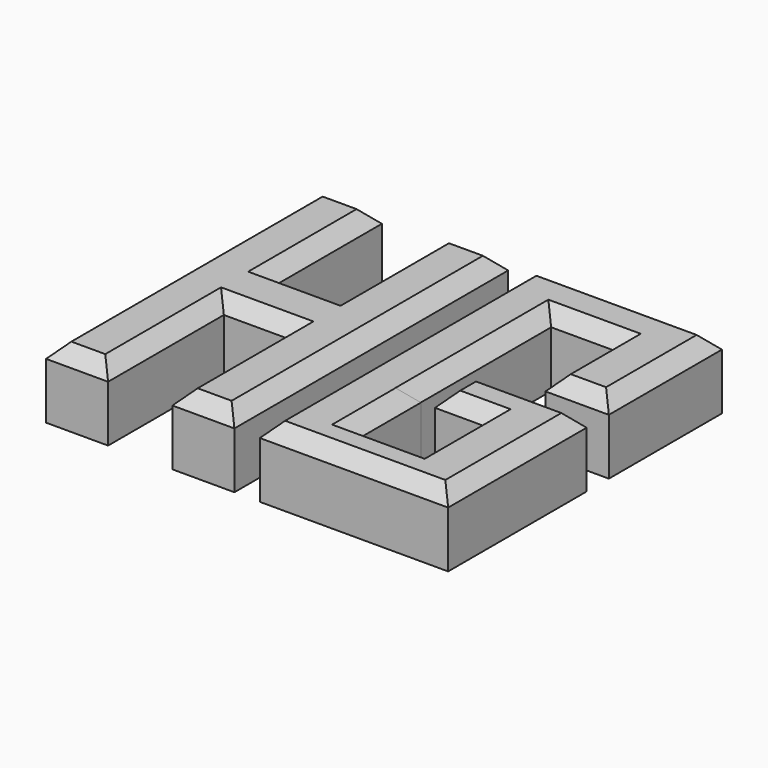
from build123d import *

# Parameters (mm, degrees)
F1_DEPTH  = 25.4
F2_DEPTH  = 25.4
F3_SIZE   = 5.08
F3_2_SIZE = 5.08


with BuildPart() as f1:
    # F0 (on Top) → F1 (new body)
    with BuildSketch(Plane.XY):
        Polygon((-50.654951, 61.242655), (-73.075995, 61.242655), (-73.075995, -62.48828), (-50.654951, -62.48828), (-50.654951, -10.172517), (-27.403498, -10.172517), (-27.403498, -62.48828), (-4.982455, -62.48828), (-4.982455, 61.242655), (-27.403498, 61.242655), (-27.403498, 12.248525), (-50.654951, 12.248525), align=None)
    extrude(amount=F1_DEPTH)

    # F3
    f3_edges = [f1.edges().sort_by_distance(p)[0] for p in [
        (-61.865473, 61.242655, 25.4),
        (-73.075995, -0.622813, 25.4),
        (-61.865473, -62.48828, 25.4),
        (-50.654951, -36.330399, 25.4),
        (-39.029225, -10.172517, 25.4),
        (-27.403498, -36.330399, 25.4),
        (-16.192977, -62.48828, 25.4),
        (-4.982455, -0.622813, 25.4),
        (-16.192977, 61.242655, 25.4),
        (-27.403498, 36.74559, 25.4),
        (-39.029225, 12.248525, 25.4),
        (-50.654951, 36.74559, 25.4),
    ]]
    chamfer(f3_edges, length=F3_SIZE)


with BuildPart() as f2:
    # F0 (on Top) → F2 (new body)
    with BuildSketch(Plane.XY):
        Polygon((72.382182, 61.143547), (4.288642, 61.143547), (4.288642, -62.587388), (72.382182, -62.587388), (72.382182, 0), (49.456822, 0), (31.360701, 0), (31.360701, -17.28439), (49.58744, -17.28439), (49.58744, -45.968894), (26.26794, -45.968894), (26.26794, -17.28439), (26.205368, -17.28439), (26.205368, 0), (26.205368, 41.680254), (49.456822, 41.680254), (49.456822, 10.051508), (72.382182, 10.051508), align=None)
    extrude(amount=F2_DEPTH)

    # F3#2
    f3_2_edges = [f2.edges().sort_by_distance(p)[0] for p in [
        (49.456822, 25.865881, 25.4),
        (60.919502, 10.051508, 25.4),
        (72.382182, 35.597527, 25.4),
        (38.335412, 61.143547, 25.4),
        (4.288642, -0.72192, 25.4),
        (38.335412, -62.587388, 25.4),
        (72.382182, -31.293694, 25.4),
        (51.871441, 0, 25.4),
        (31.360701, -8.642195, 25.4),
        (40.47407, -17.28439, 25.4),
        (49.58744, -31.626642, 25.4),
        (37.92769, -45.968894, 25.4),
        (26.26794, -31.626642, 25.4),
        (26.236654, -17.28439, 25.4),
        (26.205368, 12.197932, 25.4),
        (37.831095, 41.680254, 25.4),
    ]]
    chamfer(f3_2_edges, length=F3_2_SIZE)


solid = Compound([f1.part, f2.part])
